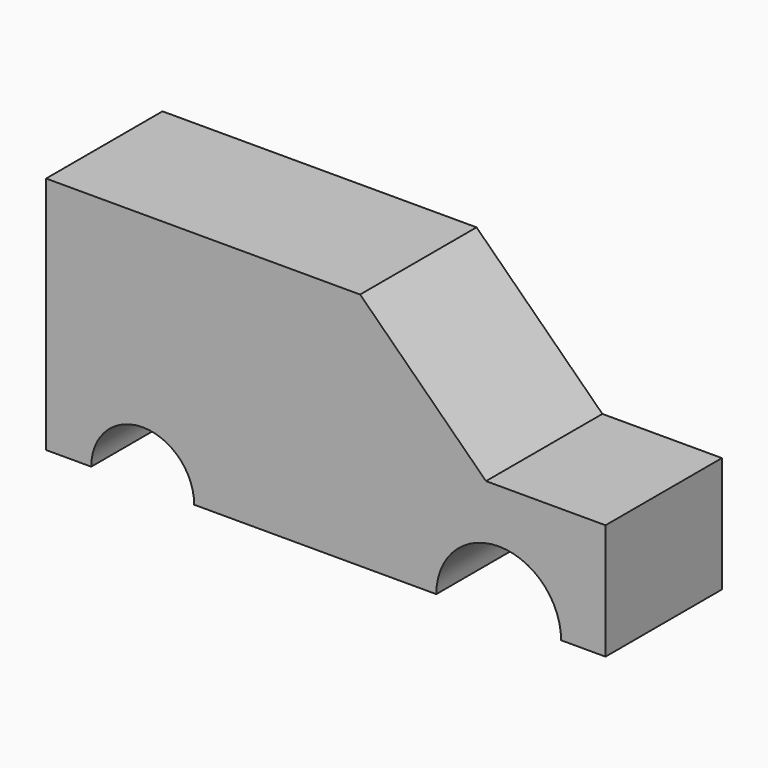
from build123d import *

# Parameters (mm, degrees)
F1_DEPTH = 25.4


with BuildPart() as f1:
    # F0 (on Front) → F1 (new body)
    with BuildSketch(Plane.XZ):
        with BuildLine():
            Line((-28.964083, 0), (0, 0))
            Line((0, 0), (13.29614, 0))
            ThreePointArc((13.29614, 0), (24.19165, 10.895509), (35.087159, 0))
            Line((35.087159, 0), (42.834755, 0))
            Line((42.834755, 0), (42.834755, 20.1967))
            Line((42.834755, 20.1967), (21.972233, 20.1967))
            Line((21.972233, 20.1967), (0, 41.725047))
            Line((0, 41.725047), (-54.819614, 41.725047))
            Line((-54.819614, 41.725047), (-54.819614, 0))
            Line((-54.819614, 0), (-46.939996, 0))
            ThreePointArc((-46.939996, 0), (-37.952039, 8.987956), (-28.964083, 0))
        make_face()
    extrude(amount=F1_DEPTH)


solid = f1.part
